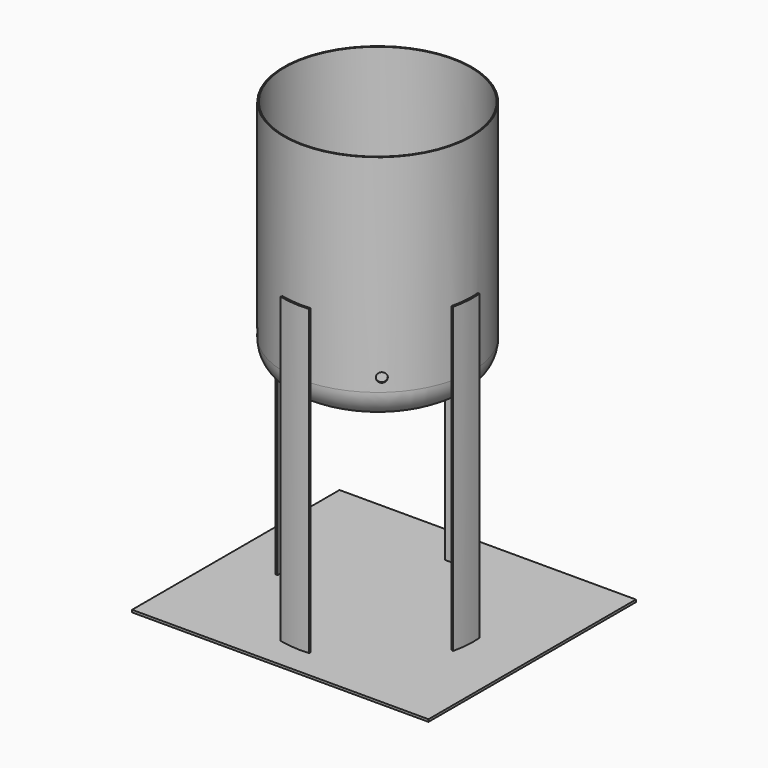
from build123d import *

# Parameters (mm, degrees)
F0_R      = 200
F1_DEPTH  = 500
F2_R      = 60
F3_T      = -2.5
F6_DEPTH  = 644
F7_W      = 630.1204264164
F7_H      = 551.2289404869
F8_DEPTH  = 5
F12_DEPTH = 230
F16_DEPTH = 560.1
F19_DEPTH = 25


with BuildPart() as f1:
    # F0 (on Top) → F1 (new body)
    with BuildSketch(Plane.XY):
        Circle(F0_R)
    extrude(amount=F1_DEPTH)

    # F2
    f2_edges = [f1.edges().sort_by_distance(p)[0] for p in [
        (-200, 0, 0),
    ]]
    fillet(f2_edges, radius=F2_R)

    # F3
    f3_openings = [f1.faces().sort_by_distance(p)[0] for p in [
        (0, 0, 500),
    ]]
    offset(amount=F3_T, openings=f3_openings)

    # F5 (on offset) → F6 (join)
    with BuildSketch(Plane.XY.offset(200)):
        with BuildLine():
            ThreePointArc((199.311150361, 16.5850939631), (199.4115038067, -15.3314105532), (194.4334777301, -46.8574725929))
            Line((194.4334777301, -46.8574725929), (198.3221472847, -47.7946220448))
            ThreePointArc((198.3221472847, -47.7946220448), (203.3997338828, -15.6380387643), (203.2973733682, 16.9167958423))
            Line((203.2973733682, 16.9167958423), (199.311150361, 16.5850939631))
        make_face()
        with BuildLine():
            ThreePointArc((-16.5850939631, 199.311150361), (15.3314105532, 199.4115038067), (46.8574725929, 194.4334777301))
            Line((46.8574725929, 194.4334777301), (47.7946220448, 198.3221472847))
            ThreePointArc((47.7946220448, 198.3221472847), (15.6380387643, 203.3997338828), (-16.9167958423, 203.2973733682))
            Line((-16.9167958423, 203.2973733682), (-16.5850939631, 199.311150361))
        make_face()
        with BuildLine():
            ThreePointArc((-199.311150361, -16.5850939631), (-199.4115038067, 15.3314105532), (-194.4334777301, 46.8574725929))
            Line((-194.4334777301, 46.8574725929), (-198.3221472847, 47.7946220448))
            ThreePointArc((-198.3221472847, 47.7946220448), (-203.3997338828, 15.6380387643), (-203.2973733682, -16.9167958423))
            Line((-203.2973733682, -16.9167958423), (-199.311150361, -16.5850939631))
        make_face()
        with BuildLine():
            ThreePointArc((16.5850939631, -199.311150361), (-15.3314105532, -199.4115038067), (-46.8574725929, -194.4334777301))
            Line((-46.8574725929, -194.4334777301), (-47.7946220448, -198.3221472847))
            ThreePointArc((-47.7946220448, -198.3221472847), (-15.6380387643, -203.3997338828), (16.9167958423, -203.2973733682))
            Line((16.9167958423, -203.2973733682), (16.5850939631, -199.311150361))
        make_face()
    extrude(amount=-F6_DEPTH)

    # F7 (on face) → F8 (join)
    with BuildSketch(Plane(origin=(0, 0, -444), x_dir=(1, 0, 0), z_dir=(0, 0, -1))):
        with Locations((4.7718733549, -10.700315237)):
            Rectangle(F7_W, F7_H)
    extrude(amount=F8_DEPTH)

    # F11 (on 3pt) → F12 (cut)
    with BuildSketch(Plane(origin=(105.5092858466, -123.084311477, 0), x_dir=(-0.7592308548, -0.6508214111, 0), z_dir=(-0.6508214111, 0.7592308548, 0))):
        with BuildLine():
            ThreePointArc((-10, 87.8230258822), (0, 77.8230258822), (10, 87.8230258822))
            Line((10, 87.8230258822), (-10, 87.8230258822))
        make_face()
        with BuildLine():
            Line((-10, 87.8230258822), (10, 87.8230258822))
            ThreePointArc((10, 87.8230258822), (0, 97.8230258822), (-10, 87.8230258822))
        make_face()
    extrude(amount=-F12_DEPTH, mode=Mode.SUBTRACT)

    # F15 (on 3pt) → F16 (cut)
    with BuildSketch(Plane(origin=(-123.084311477, -105.5092858466, 0), x_dir=(-0.6508214111, 0.7592308548, 0), z_dir=(0.7592308548, 0.6508214111, 0))):
        with BuildLine():
            ThreePointArc((-10, 69.7543621063), (0, 59.7543621063), (10, 69.7543621063))
            Line((10, 69.7543621063), (-10, 69.7543621063))
        make_face()
        with BuildLine():
            Line((-10, 69.7543621063), (10, 69.7543621063))
            ThreePointArc((10, 69.7543621063), (0, 79.7543621063), (-10, 69.7543621063))
        make_face()
    extrude(amount=-F16_DEPTH, mode=Mode.SUBTRACT)

    # F18 (on offset) → F19 (join)
    with BuildSketch(Plane.XY.offset(108.5)):
        with BuildLine():
            ThreePointArc((-15.0850128449, 196.9230621016), (-0.1480075711, 197.4928535083), (14.789834964, 196.9454512847))
            ThreePointArc((14.789834964, 196.9454512847), (-0.1480128853, 197.4999445372), (-15.0850128449, 196.9230621016))
        make_face()
        with BuildLine():
            ThreePointArc((-162.9978679485, -111.5255353909), (-170.9598244185, -98.8746050706), (-177.9546814544, -85.6643528457))
            ThreePointArc((-177.9546814544, -85.6643528457), (-170.9659627725, -98.8781551874), (-162.9978679485, -111.5255353909))
        make_face()
        with BuildLine():
            ThreePointArc((163.1648464903, -111.281098439), (171.1139756579, -98.6217893498), (178.0828807935, -85.3975267107))
            ThreePointArc((178.0828807935, -85.3975267107), (171.1078319896, -98.6182484376), (163.1648464903, -111.281098439))
        make_face()
        with BuildLine():
            Line((-151.9739193408, -70.6643528457), (-177.9546814544, -85.6643528457))
            ThreePointArc((-177.9546814544, -85.6643528457), (-170.9598244185, -98.8746050706), (-162.9978679485, -111.5255353909))
            Line((-162.9978679485, -111.5255353909), (-137.0364954363, -96.5367299825))
            Line((-137.0364954363, -96.5367299825), (-151.9739193408, -70.6643528457))
        make_face()
        with BuildLine():
            ThreePointArc((163.1648464903, -111.281098439), (171.1078319896, -98.6182484376), (178.0828807935, -85.3975267107))
            Line((178.0828807935, -85.3975267107), (152.1215082813, -70.4087213022))
            Line((152.1215082813, -70.4087213022), (137.1840843768, -96.281098439))
            Line((137.1840843768, -96.281098439), (163.1648464903, -111.281098439))
        make_face()
        with BuildLine():
            Line((14.789834964, 166.9454512847), (14.789834964, 196.9454512847))
            ThreePointArc((14.789834964, 196.9454512847), (-0.1480075711, 197.4928535083), (-15.0850128449, 196.9230621016))
            Line((-15.0850128449, 196.9230621016), (-15.0850128449, 166.9454512847))
            Line((-15.0850128449, 166.9454512847), (14.789834964, 166.9454512847))
        make_face()
    extrude(amount=F19_DEPTH)


solid = f1.part
